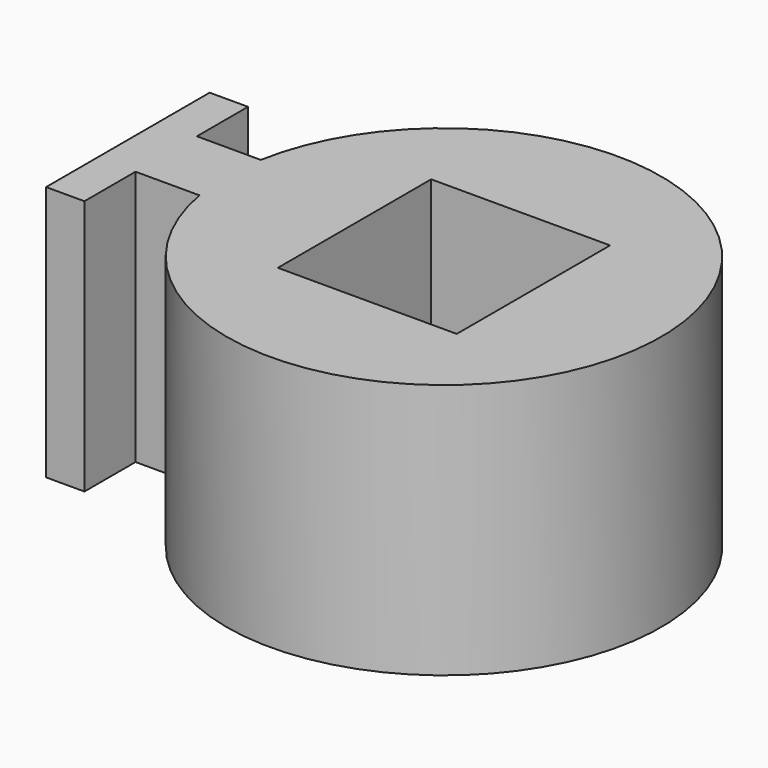
from build123d import *

# Parameters (mm, degrees)
PAD007_DEPTH            = 20
SKETCH018_W             = 15
SKETCH018_H             = 14
POCKET008_DEPTH         = 20.001
SKETCH019_W             = 20
SKETCH019_H             = 20
POCKET009_DEPTH         = 10.001
BODY006_PLACEMENT_ANGLE = 90


with BuildPart() as part:
    # Sketch017 → Pad007 (new body)
    with BuildSketch(Plane.XY):
        with BuildLine():
            Line((-3, -3), (-8, -3))
            Line((-8, -3), (-8, 0))
            Line((-8, 0), (8, 0))
            Line((8, 0), (8, -3))
            Line((8, -3), (3, -3))
            Line((3, -3), (3, -8))
            ThreePointArc((-3, -8), (0, -41.733201), (3, -8))
            Line((-3, -3), (-3, -8))
        make_face()
    extrude(amount=PAD007_DEPTH)

    # Sketch018 (on Face10 of Pad007) → Pocket008 (cut, through all)
    with BuildSketch(Plane.XY.offset(20)):
        with Locations((0, -24.733201)):
            Rectangle(SKETCH018_W, SKETCH018_H)
    extrude(amount=-POCKET008_DEPTH, mode=Mode.SUBTRACT)

    # Sketch019 (on Face5 of Pocket008) → Pocket009 (cut, through all)
    with BuildSketch(Plane.XY.offset(10)):
        with Locations((0, -24.733201)):
            Rectangle(SKETCH019_W, SKETCH019_H)
    extrude(amount=-POCKET009_DEPTH, mode=Mode.SUBTRACT)


with BuildPart() as part_1:
    # Body006 placement: moved
    add(part.part.moved(Location((32.5, 0, 180))).rotate(Axis((32.5, 0, 180), (0, 0, 1)), BODY006_PLACEMENT_ANGLE))


solid = part_1.part
